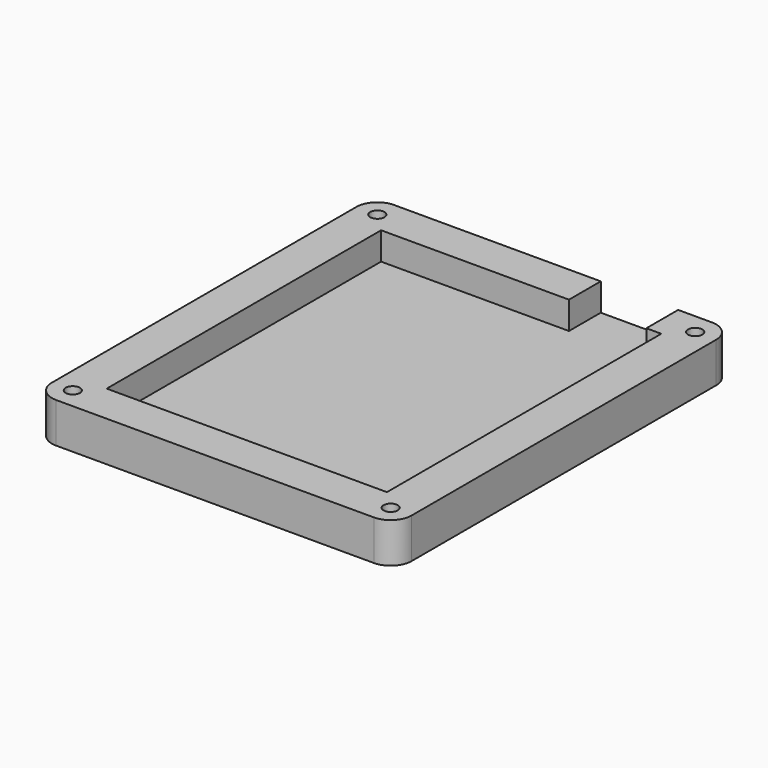
from build123d import *

# Parameters (mm, degrees)
SKETCH_W        = 86
SKETCH_H        = 101
PAD_DEPTH       = 3
SKETCH001_W     = 86
SKETCH001_H     = 101
SKETCH001_W_2   = 67
SKETCH001_H_2   = 82
PAD001_DEPTH    = 6.6
SKETCH002_R     = 1.7
POCKET_DEPTH    = 12
SKETCH003_W     = 18.5
SKETCH003_H     = 9.5
POCKET001_DEPTH = 6.6
FILLET_R        = 5


with BuildPart() as part:
    # Sketch → Pad (new body)
    with BuildSketch(Plane.XY):
        Rectangle(SKETCH_W, SKETCH_H)
    extrude(amount=PAD_DEPTH)

    # Sketch001 (on Face6 of Pad) → Pad001 (join)
    with BuildSketch(Plane.XY.offset(3)):
        Rectangle(SKETCH001_W, SKETCH001_H)
        Rectangle(SKETCH001_W_2, SKETCH001_H_2, mode=Mode.SUBTRACT)
    extrude(amount=PAD001_DEPTH)

    # Sketch002 (on Face3 of Pad001) → Pocket (cut)
    with BuildSketch(Plane.XY.offset(9.6)):
        with Locations((-38, -45.5)):
            Circle(SKETCH002_R)
        with Locations((-38, 45.5)):
            Circle(SKETCH002_R)
        with Locations((38, 45.5)):
            Circle(SKETCH002_R)
        with Locations((38, -45.5)):
            Circle(SKETCH002_R)
    extrude(amount=-POCKET_DEPTH, mode=Mode.SUBTRACT)

    # Sketch003 (on Face10 of Pocket) → Pocket001 (cut)
    with BuildSketch(Plane.XY.offset(9.6)):
        with Locations((20.676, 45.75)):
            Rectangle(SKETCH003_W, SKETCH003_H)
    extrude(amount=-POCKET001_DEPTH, mode=Mode.SUBTRACT)

    # Fillet
    fillet_edges = [part.edges().sort_by_distance(p)[0] for p in [
        (43, -50.5, 4.8),
        (-43, -50.5, 4.8),
        (-43, 50.5, 4.8),
        (43, 50.5, 4.8),
    ]]
    fillet(fillet_edges, radius=FILLET_R)


solid = part.part
